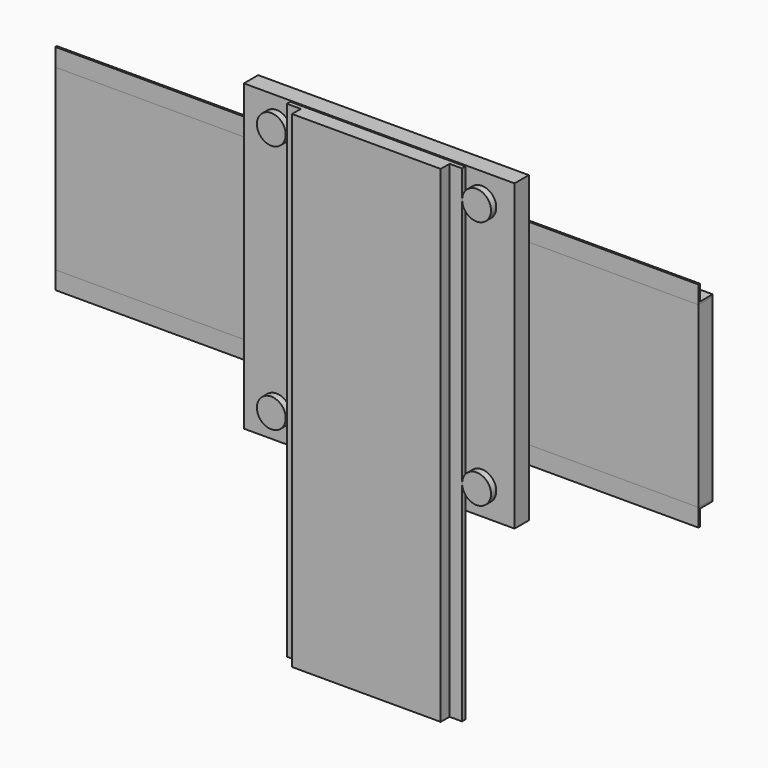
from build123d import *

# Parameters (mm, degrees)
F0_W      = 914.4
F0_H      = 254
F1_DEPTH  = 25.4
F2_W      = 22.7502174675
F2_H      = 2.7673386784
F2_W_2    = 2.6497825325
F2_H_2    = 22.6326613216
F3_DEPTH  = 914.4
F6_R      = 20.5028880903
F7_DEPTH  = 12.7
F6_W      = 192.4548596144
F6_H      = 60.7080133171
F6_H_2    = 22.6326613216
F8_DEPTH  = 25.4
F10_DEPTH = 28.0378293246
F12_DEPTH = 692.3658251762


with BuildPart() as f1:
    # F0 (on Front) → F1 (new body)
    with BuildSketch(Plane.XZ):
        with Locations((329.3701468825, 62.5017481594)):
            Rectangle(F0_W, F0_H)
    extrude(amount=F1_DEPTH)


with BuildPart() as f3:
    # F2 (on face) → F3 (new body)
    with BuildSketch(Plane.YZ.offset(786.5701468825)):
        with Locations((-11.3751087338, 190.8854174986)):
            Rectangle(F2_W, F2_H)
        with Locations((-24.0751087338, 190.8854174986)):
            Rectangle(F2_W_2, F2_H)
        with Locations((-24.0751087338, 203.5854174986)):
            Rectangle(F2_W_2, F2_H_2)
    extrude(amount=-F3_DEPTH)


with BuildPart() as f4_1:
    # F4: instance of F3
    add(f3.part.mirror(Plane(origin=(329.3701468825, -12.7, -64.4982518406), x_dir=(1, 0, 0), z_dir=(0, 0, -1))))


with BuildPart() as f4_1_1:
    # F5: moved
    add(f4_1.part.moved(Location((0, 0, 254.3581724167))))


with BuildPart() as f7:
    # F6 (on face) → F7 (new body)
    with BuildSketch(Plane(origin=(0, -22.7502174675, 0), x_dir=(-1, 0, 0), z_dir=(0, 1, 0))):
        with Locations((-209.7437381744, -118.0252432823)):
            Circle(F6_R)
    extrude(amount=-F7_DEPTH)


with BuildPart() as f7b:
    # F6 (on face) → F7, piece 2 (new body)
    with BuildSketch(Plane(origin=(0, -22.7502174675, 0), x_dir=(-1, 0, 0), z_dir=(0, 1, 0))):
        with Locations((-501.6443431377, -118.0252432823)):
            Circle(F6_R)
    extrude(amount=-F7_DEPTH)


with BuildPart() as f7c:
    # F6 (on face) → F7, piece 3 (new body)
    with BuildSketch(Plane(origin=(0, -22.7502174675, 0), x_dir=(-1, 0, 0), z_dir=(0, 1, 0))):
        with Locations((-501.6443431377, 236.9764745235)):
            Circle(F6_R)
    extrude(amount=-F7_DEPTH)


with BuildPart() as f7d:
    # F6 (on face) → F7, piece 4 (new body)
    with BuildSketch(Plane(origin=(0, -22.7502174675, 0), x_dir=(-1, 0, 0), z_dir=(0, 1, 0))):
        with Locations((-209.7437381744, 236.9764745235)):
            Circle(F6_R)
    extrude(amount=-F7_DEPTH)


with BuildPart() as f8:
    # F6 (on face) → F8 (new body)
    with BuildSketch(Plane(origin=(0, -22.7502174675, 0), x_dir=(-1, 0, 0), z_dir=(0, 1, 0))):
        Polygon((-163.2391810417, 59.4756156206), (-163.2391810417, 192.2690868378), (-355.6940406561, 192.2690868378), (-548.1489002705, 192.2690868378), (-548.1489002705, -156.6585302353), (-355.6940406561, -156.6585302353), (-163.2391810417, -156.6585302353), align=None)
        with Locations((-501.6443431377, -118.0252432823)):
            Circle(F6_R, mode=Mode.SUBTRACT)
        with Locations((-209.7437381744, -118.0252432823)):
            Circle(F6_R, mode=Mode.SUBTRACT)
        with Locations((-451.9214704633, 245.255754818)):
            Rectangle(F6_W, F6_H)
        with Locations((-501.6443431377, 236.9764745235)):
            Circle(F6_R, mode=Mode.SUBTRACT)
        with Locations((-259.4666108489, 245.255754818)):
            Rectangle(F6_W, F6_H)
        with Locations((-209.7437381744, 236.9764745235)):
            Circle(F6_R, mode=Mode.SUBTRACT)
        with Locations((-451.9214704633, 203.5854174986)):
            Rectangle(F6_W, F6_H_2)
        with Locations((-259.4666108489, 203.5854174986)):
            Rectangle(F6_W, F6_H_2)
    extrude(amount=F8_DEPTH)


with BuildPart() as f8_1:
    # F9: moved
    add(f8.part.moved(Location((0, -31.3513949513, 0))))


with BuildPart() as f10:
    # F10 (new): a face of the model
    f10_faces = [f7c.part.faces().sort_by_distance(p)[0] for p in [
        (501.6443431377, -35.4502174675, 236.9764745235),
    ]]
    extrude(f10_faces, amount=F10_DEPTH)


with BuildPart() as f10b:
    # F10#2 (new): a face of the model
    f10_2_faces = [f7d.part.faces().sort_by_distance(p)[0] for p in [
        (209.7437381744, -35.4502174675, 236.9764745235),
    ]]
    extrude(f10_2_faces, amount=F10_DEPTH)


with BuildPart() as f10c:
    # F10#3 (new): a face of the model
    f10_3_faces = [f7.part.faces().sort_by_distance(p)[0] for p in [
        (209.7437381744, -35.4502174675, -118.0252432823),
    ]]
    extrude(f10_3_faces, amount=F10_DEPTH)


with BuildPart() as f10d:
    # F10#4 (new): a face of the model
    f10_4_faces = [f7b.part.faces().sort_by_distance(p)[0] for p in [
        (501.6443431377, -35.4502174675, -118.0252432823),
    ]]
    extrude(f10_4_faces, amount=F10_DEPTH)


with BuildPart() as f12:
    # F11 (on face) → F12 (new body)
    with BuildSketch(Plane.XY.offset(275.6097614765)):
        Polygon((231.1225235462, -56.4451478422), (230.9772819281, -62.4846741557), (251.0126233101, -62.4846741557), (251.0126233101, -78.1946480274), (462.3937010765, -78.1946480274), (462.3937010765, -62.4559223652), (480.1695346832, -62.4559223652), (480.1695346832, -56.4451478422), (400.5369842052, -56.4451478422), align=None)
    extrude(amount=-F12_DEPTH)


solid = Compound([f1.part, f3.part, f4_1_1.part, f7.part, f7b.part, f7c.part, f7d.part, f8_1.part, f10.part, f10b.part, f10c.part, f10d.part, f12.part])
